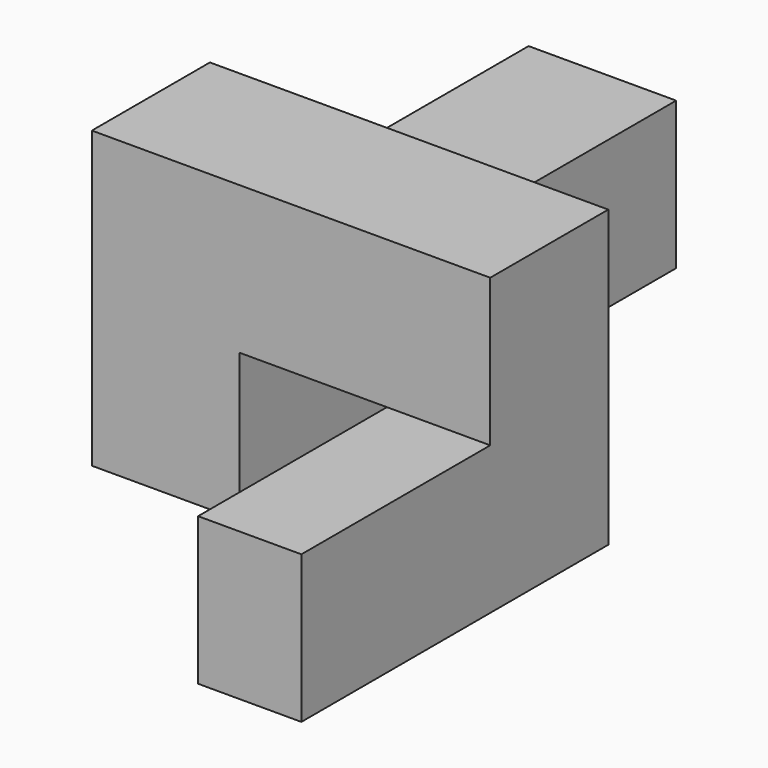
from build123d import *

# Parameters (mm, degrees)
F0_W     = 66.04
F0_H     = 25.4
F1_DEPTH = 17.78
F2_W     = 17.78
F2_H     = 25.4
F3_DEPTH = 25.4
F4_W     = 25.4
F4_H     = 25.4
F5_DEPTH = 50.8
F6_W     = 25.4
F6_H     = 25.4
F7_DEPTH = 25.4
F8_W     = 25.4
F8_H     = 25.4
F9_DEPTH = 68.58


with BuildPart() as f1:
    # F0 (on Right) → F1 (new body)
    with BuildSketch(Plane.YZ):
        with Locations((-37.761463, -42.327177)):
            Rectangle(F0_W, F0_H)
    extrude(amount=-F1_DEPTH)

    # F2 (on face) → F3 (join)
    with BuildSketch(Plane.XY.offset(-29.627177)):
        with Locations((-8.89, -17.441463)):
            Rectangle(F2_W, F2_H)
    extrude(amount=F3_DEPTH)

    # F4 (on face) → F5 (join)
    with BuildSketch(Plane(origin=(-17.78, 0, 0), x_dir=(0, -1, 0), z_dir=(-1, 0, 0))):
        with Locations((17.441463, -16.927177)):
            Rectangle(F4_W, F4_H)
    extrude(amount=F5_DEPTH)

    # F6 (on face) → F7 (join)
    with BuildSketch(Plane(origin=(0, 0, -29.627177), x_dir=(1, 0, 0), z_dir=(0, 0, -1))):
        with Locations((-55.88, 17.441463)):
            Rectangle(F6_W, F6_H)
    extrude(amount=F7_DEPTH)

    # F8 (on face) → F9 (join)
    with BuildSketch(Plane(origin=(0, -4.741463, 0), x_dir=(-1, 0, 0), z_dir=(0, 1, 0))):
        with Locations((55.88, -42.327177)):
            Rectangle(F8_W, F8_H)
    extrude(amount=F9_DEPTH)


solid = f1.part
